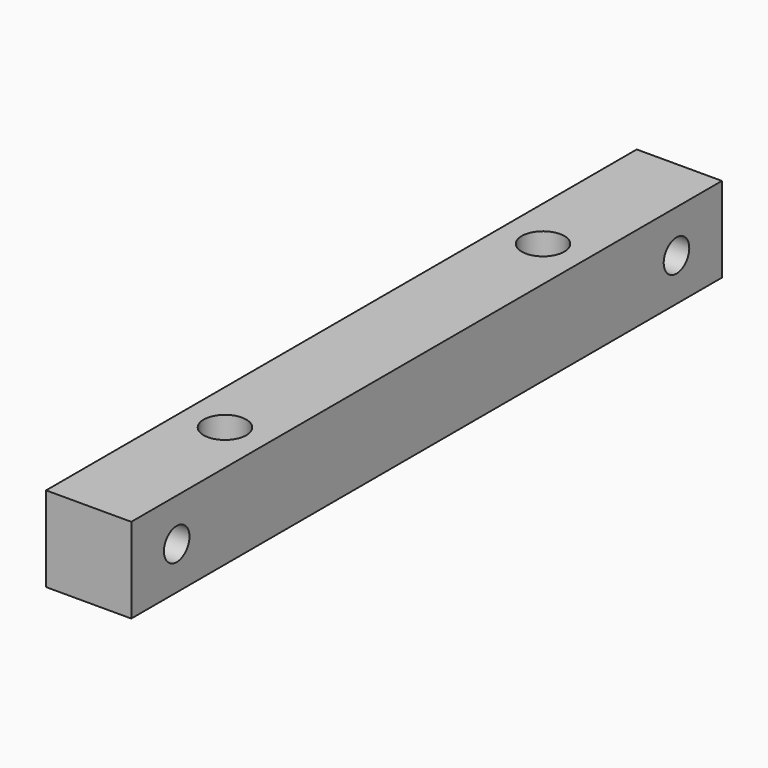
from build123d import *

# Parameters (mm, degrees)
F0_W     = 9.525
F0_H     = 9.525
F1_DEPTH = 41.275
F2_R     = 1.7859375
F3_DEPTH = 12.7
F4_R     = 1.7859375
F5_DEPTH = 12.7
F6_R     = 2.38125
F7_DEPTH = 12.7
F8_R     = 2.38125
F9_DEPTH = 12.7


with BuildPart() as f1:
    # F0 (on Front) → F1 (new body, symmetric)
    with BuildSketch(Plane.XZ):
        Rectangle(F0_W, F0_H)
    extrude(amount=F1_DEPTH, both=True)

    # F2 (on Right) → F3 (cut, symmetric)
    with BuildSketch(Plane.YZ):
        with Locations((-34.925, 0)):
            Circle(F2_R)
    extrude(amount=F3_DEPTH, both=True, mode=Mode.SUBTRACT)

    # F4 (on face) → F5 (cut, symmetric)
    with BuildSketch(Plane.YZ.offset(4.7625)):
        with Locations((34.925, 0)):
            Circle(F4_R)
    extrude(amount=F5_DEPTH, both=True, mode=Mode.SUBTRACT)

    # F6 (on Top) → F7 (cut, symmetric)
    with BuildSketch(Plane.XY):
        with Locations((0, -22.225)):
            Circle(F6_R)
    extrude(amount=F7_DEPTH, both=True, mode=Mode.SUBTRACT)

    # F8 (on face) → F9 (cut, symmetric)
    with BuildSketch(Plane.XY.offset(4.7625)):
        with Locations((0, 22.225)):
            Circle(F8_R)
    extrude(amount=F9_DEPTH, both=True, mode=Mode.SUBTRACT)


solid = f1.part
